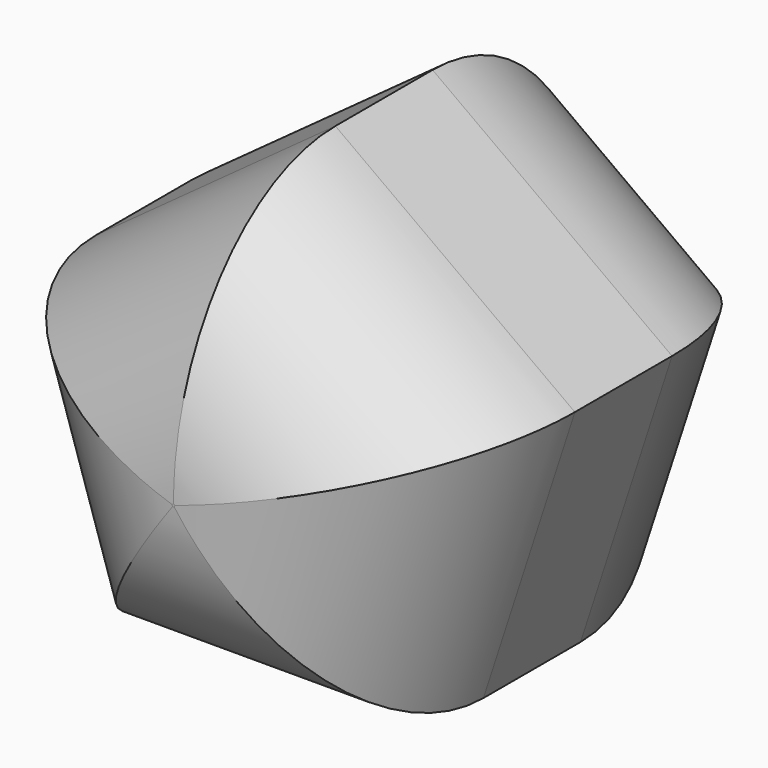
from build123d import *

# Parameters (mm, degrees)
F1_DEPTH      = 13
F1_DEPTH_BACK = 13
F2_R          = 10


with BuildPart() as f1:
    # F0 (on Front) → F1 (new body, two sides)
    with BuildSketch(Plane.XZ) as f1_sk:
        Polygon((-53.997823, -24.075741), (-39.376436, -24.075741), (-34.858179, -10.169976), (-46.687129, -1.575741), (-58.516079, -10.169976), align=None)
    extrude(amount=F1_DEPTH)
    extrude(f1_sk.sketch, amount=-F1_DEPTH_BACK)

    # F2
    f2_edges = [f1.edges().sort_by_distance(p)[0] for p in [
        (-52.601604, -13, -5.872858),
        (-56.256951, -13, -17.122858),
        (-46.687129, -13, -24.075741),
        (-37.117308, -13, -17.122858),
        (-40.772654, -13, -5.872858),
        (-52.601604, 13, -5.872858),
        (-56.256951, 13, -17.122858),
        (-46.687129, 13, -24.075741),
        (-37.117308, 13, -17.122858),
        (-40.772654, 13, -5.872858),
    ]]
    fillet(f2_edges, radius=F2_R)


solid = f1.part
